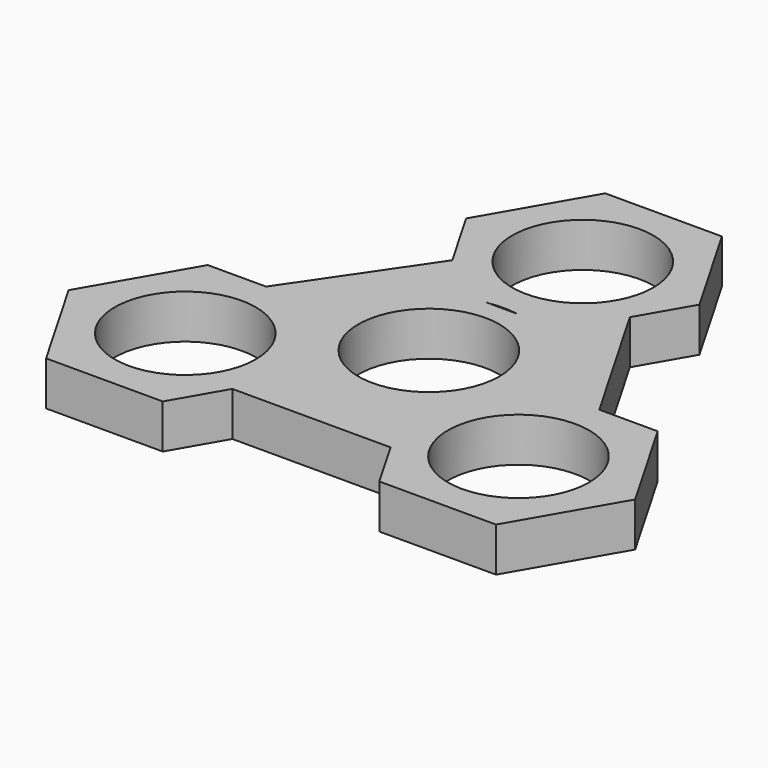
from build123d import *

# Parameters (mm, degrees)
F0_R     = 11.2
F1_DEPTH = 7


with BuildPart() as f1:
    # F0 (on Top) → F1 (new body)
    with BuildSketch(Plane.XY):
        with BuildLine():
            Line((9.256619, 46.566244), (-9.256619, 46.566244))
            Line((-9.256619, 46.566244), (-18.513238, 30.53331))
            Line((-18.513238, 30.53331), (-12.841006, 20.708716))
            add(Edge.make_bspline(
                [(-12.841006, 20.708716), (-17.374878, 14.061237), (-21.90875, 7.413758), (-26.442622, 0.766279)],
                knots=[0, 0, 0, 0, 24.139278, 24.139278, 24.139278, 24.139278], degree=3))
            Line((-26.442622, 0.766279), (-35.699241, 0.766279))
            Line((-35.699241, 0.766279), (-44.95586, -15.266655))
            Line((-44.95586, -15.266655), (-35.699241, -31.299589))
            Line((-35.699241, -31.299589), (-17.186003, -31.299589))
            Line((-17.186003, -31.299589), (-12.557694, -23.283122))
            add(Edge.make_bspline(
                [(-12.557694, -23.283122), (-4.185898, -23.283122), (4.185898, -23.283122), (12.557694, -23.283122)],
                knots=[0, 0, 0, 0, 25.115388, 25.115388, 25.115388, 25.115388], degree=3))
            Line((12.557694, -23.283122), (17.186003, -31.299589))
            Line((17.186003, -31.299589), (35.699241, -31.299589))
            Line((35.699241, -31.299589), (44.95586, -15.266655))
            Line((44.95586, -15.266655), (35.699241, 0.766279))
            Line((35.699241, 0.766279), (26.442622, 0.766279))
            add(Edge.make_bspline(
                [(13.884928, 22.516843), (18.070826, 15.266655), (22.256724, 8.016467), (26.442622, 0.766279)],
                knots=[0, 0, 0, 0, 25.115388, 25.115388, 25.115388, 25.115388], degree=3))
            Line((13.884928, 22.516843), (18.513238, 30.53331))
            Line((18.513238, 30.53331), (9.256619, 46.566244))
        make_face()
        with Locations((-26.442622, -15.266655)):
            Circle(F0_R, mode=Mode.SUBTRACT)
        with Locations((26.442622, -15.266655)):
            Circle(F0_R, mode=Mode.SUBTRACT)
        Circle(F0_R, mode=Mode.SUBTRACT)
        with BuildLine():
            ThreePointArc((-2.406786, 14.500376), (0, 14.698759), (2.406786, 14.500376))
            Line((2.406786, 14.500376), (-2.406786, 14.500376))
        make_face(mode=Mode.SUBTRACT)
        with Locations((0, 30.53331)):
            Circle(F0_R, mode=Mode.SUBTRACT)
    extrude(amount=F1_DEPTH)


solid = f1.part
